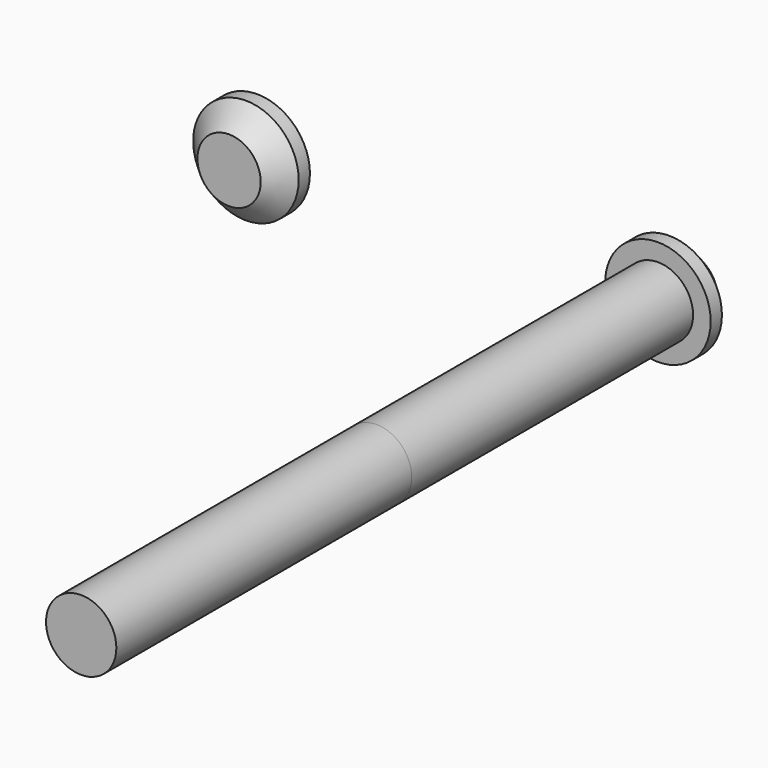
from build123d import *

# Parameters (mm, degrees)
F0_R     = 7.5
F0_R_2   = 5
F1_DEPTH = 5
F2_DEPTH = 50
F3_R     = 5
F4_DEPTH = 52.5
F5_DEPTH = 5
F6_DEPTH = 2.5
F7_SIZE  = 3
F8_SIZE  = 3


with BuildPart() as f1:
    # F0 (on Front) → F1 (new body)
    with BuildSketch(Plane.XZ):
        Circle(F0_R)
        Circle(F0_R_2, mode=Mode.SUBTRACT)
        Circle(F0_R_2)
    extrude(amount=-F1_DEPTH)

    # F0 (on Front) → F2 (join)
    with BuildSketch(Plane.XZ):
        Circle(F0_R_2)
    extrude(amount=F2_DEPTH)

    # F7
    f7_edges = [f1.edges().sort_by_distance(p)[0] for p in [
        (-7.5, 5, 0),
    ]]
    chamfer(f7_edges, length=F7_SIZE)


with BuildPart() as f4:
    # F3 (on face) → F4 (new body)
    with BuildSketch(Plane.XZ.offset(50)):
        Circle(F3_R)
    extrude(amount=F4_DEPTH)


with BuildPart() as f5:
    # F0 (on Front) → F5 (new body)
    with BuildSketch(Plane.XZ):
        with Locations((-56.9769628346, 0)):
            Circle(F0_R)
        with Locations((-56.9769628346, 0)):
            Circle(F0_R_2, mode=Mode.SUBTRACT)
        with Locations((-56.9769628346, 0)):
            Circle(F0_R_2)
    extrude(amount=F5_DEPTH)

    # F0 (on Front) → F6 (cut)
    with BuildSketch(Plane.XZ):
        with Locations((-56.9769628346, 0)):
            Circle(F0_R_2)
    extrude(amount=F6_DEPTH, mode=Mode.SUBTRACT)

    # F8
    f8_edges = [f5.edges().sort_by_distance(p)[0] for p in [
        (-64.476963, -5, 0),
    ]]
    chamfer(f8_edges, length=F8_SIZE)


solid = Compound([f1.part, f4.part, f5.part])
